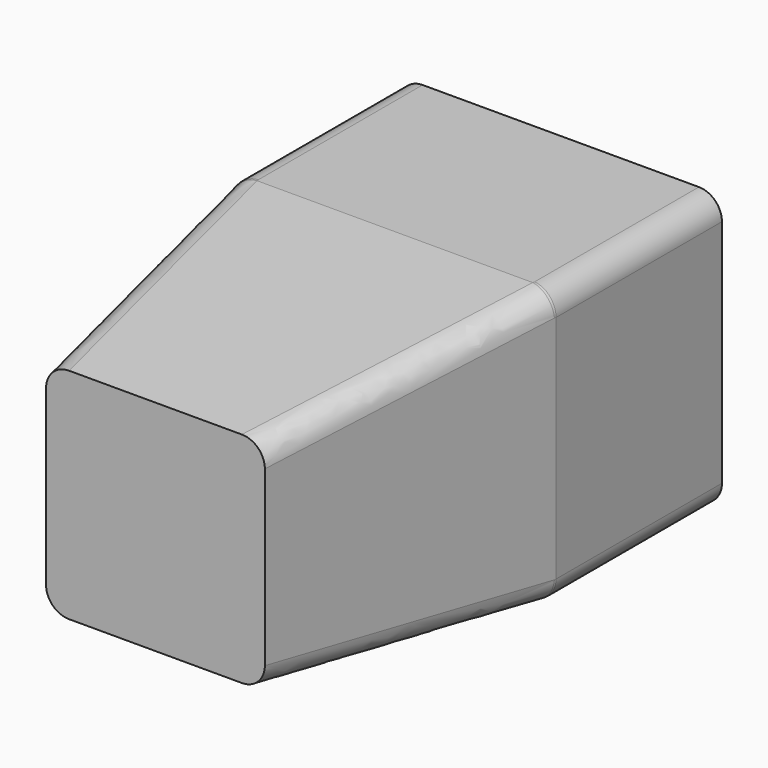
from build123d import *

# Parameters (mm, degrees)
SKETCH047_W  = 14
SKETCH047_H  = 12
PAD042_DEPTH = 9
SKETCH046_W  = 14
SKETCH046_H  = 12
SKETCH048_W  = 9.5
SKETCH048_H  = 9.5
FILLET002_R  = 1


with BuildPart() as part:
    # Sketch047 → Pad042 (new body)
    with BuildSketch(Plane.XZ):
        Rectangle(SKETCH047_W, SKETCH047_H)
    extrude(amount=-PAD042_DEPTH)

    # Sketch046 (on Face5 of Pad042) → AdditiveLoft section 0
    with BuildSketch(Plane.XZ):
        Rectangle(SKETCH046_W, SKETCH046_H)
    # Sketch048 (on DatumPlane) → AdditiveLoft section 1
    with BuildSketch(Plane.XZ.offset(13)):
        Rectangle(SKETCH048_W, SKETCH048_H)
    loft()

    # Fillet002
    fillet002_edges = [part.edges().sort_by_distance(p)[0] for p in [
        (-7, 4.5, -6),
        (-5.875, -6.5, -5.375),
        (-5.875, -6.5, 5.375),
        (-7, 4.5, 6),
        (7, 4.5, -6),
        (5.875, -6.5, -5.375),
        (7, 4.5, 6),
        (5.875, -6.5, 5.375),
    ]]
    fillet(fillet002_edges, radius=FILLET002_R)


solid = part.part
